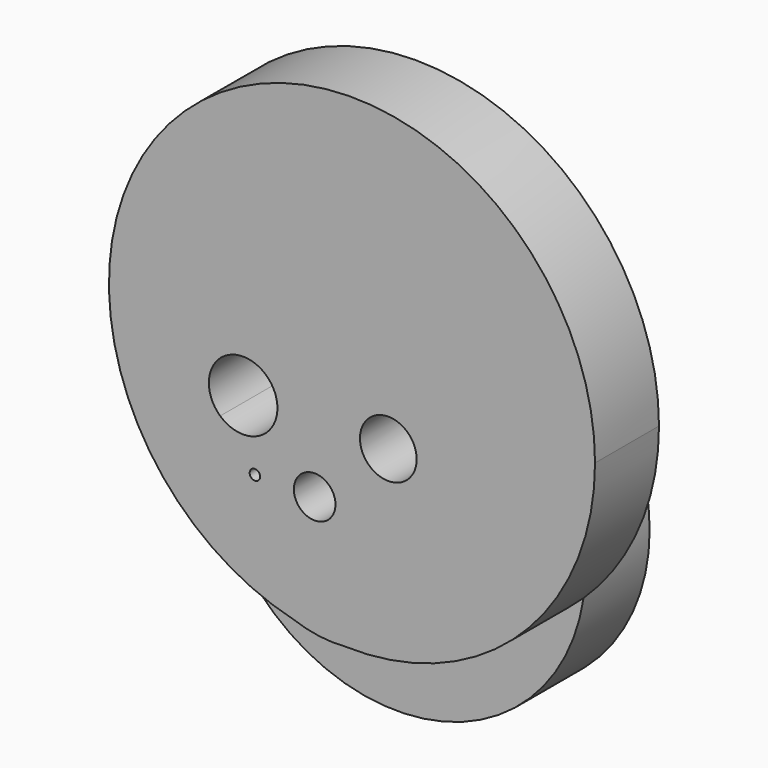
from build123d import *

# Parameters (mm, degrees)
F0_R     = 59.8445328198
F1_DEPTH = 25.4
F2_R     = 1.6595219512
F2_R_2   = 6.6078081375
F2_R_3   = 9.0128381588
F3_DEPTH = 25.4


with BuildPart() as f1:
    # F0 (on Front) → F1 (new body)
    with BuildSketch(Plane.XZ):
        with Locations((-51.3602979481, 48.6088730395)):
            Circle(F0_R)
    extrude(amount=F1_DEPTH)

    # F2 (on face) → F3 (join)
    with BuildSketch(Plane.XZ.offset(25.4)):
        with BuildLine():
            ThreePointArc((-74.7262415408, 87.5429960215), (-70.6324871698, 83.5455246385), (-69.1296755989, 78.0246406794))
            ThreePointArc((-69.1296755989, 78.0246406794), (-75.594202636, 68.0728078801), (-87.3145593395, 69.9335401611))
            ThreePointArc((-87.3145593395, 69.9335401611), (-85.74951144, 40.3862521604), (-63.8172999639, 20.5249907984))
            ThreePointArc((-63.8172999639, 20.5249907984), (-55.8809359492, 19.0161078752), (-47.8303578802, 18.3446957784))
            ThreePointArc((-47.8303578802, 18.3446957784), (-22.2494316739, 30.6402887159), (-11.8735676311, 57.0582151413))
            ThreePointArc((-11.8735676311, 57.0582151413), (-33.7521367496, 91.9859279311), (-74.7262415408, 87.5429960215))
        make_face()
        with Locations((-76.2917250395, 57.0582151413)):
            Circle(F2_R, mode=Mode.SUBTRACT)
        with Locations((-57.3005713522, 57.0582151413)):
            Circle(F2_R_2, mode=Mode.SUBTRACT)
        with Locations((-33.9007563889, 78.1127512455)):
            Circle(F2_R_3, mode=Mode.SUBTRACT)
        with BuildLine():
            ThreePointArc((-87.3145593395, 69.9335401611), (-88.8832654664, 84.3591256886), (-74.7262415408, 87.5429960215))
            ThreePointArc((-74.7262415408, 87.5429960215), (-33.7521367496, 91.9859279311), (-11.8735676311, 57.0582151413))
            ThreePointArc((-11.8735676311, 57.0582151413), (-22.2494316739, 30.6402887159), (-47.8303578802, 18.3446957784))
            ThreePointArc((-47.8303578802, 18.3446957784), (8.3017992463, 40.0870242253), (31.7662845989, 95.5213622938))
            ThreePointArc((31.7662845989, 95.5213622938), (-93.1100278653, 156.2681263545), (-63.8172999639, 20.5249907984))
            ThreePointArc((-63.8172999639, 20.5249907984), (-85.74951144, 40.3862521604), (-87.3145593395, 69.9335401611))
        make_face()
        with BuildLine():
            ThreePointArc((-47.8303578802, 18.3446957784), (-55.8809359492, 19.0161078752), (-63.8172999639, 20.5249907984))
            ThreePointArc((-63.8172999639, 20.5249907984), (-55.9383572599, 18.5950679887), (-47.8303578802, 18.3446957784))
        make_face()
    extrude(amount=F3_DEPTH)


solid = f1.part
